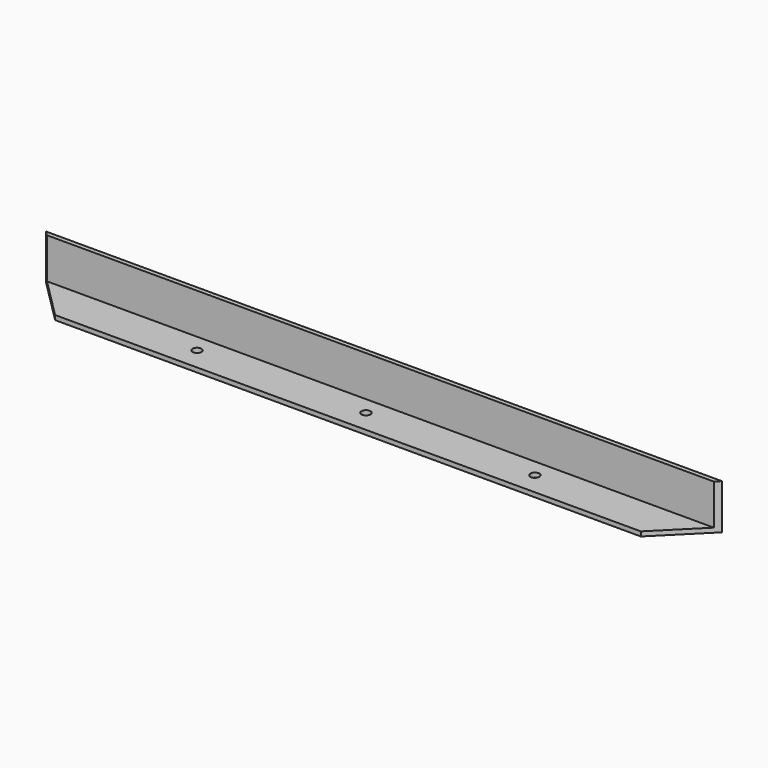
from build123d import *

# Parameters (mm, degrees)
F0_R     = 2.54
F1_DEPTH = 25.4
F2_T     = -2.54


with BuildPart() as f1:
    # F0 (on Top) → F1 (new body)
    with BuildSketch(Plane.XY):
        Polygon((184.18342, -10.24653), (-196.81658, -10.24653), (-171.41658, -35.64653), (158.78342, -35.64653), align=None)
        with Locations((-101.56658, -22.94653)):
            Circle(F0_R, mode=Mode.SUBTRACT)
        with Locations((-6.31658, -22.94653)):
            Circle(F0_R, mode=Mode.SUBTRACT)
        with Locations((88.93342, -22.94653)):
            Circle(F0_R, mode=Mode.SUBTRACT)
    extrude(amount=F1_DEPTH)

    # F2
    f2_openings = [f1.faces().sort_by_distance(p)[0] for p in [
        (-104.10658, -22.94653, 12.7),
        (-8.85658, -22.94653, 12.7),
        (86.39342, -22.94653, 12.7),
        (-184.11658, -22.94653, 12.7),
        (171.48342, -22.94653, 12.7),
        (-6.31658, -35.64653, 12.7),
        (168.783363, -20.246473, 25.4),
    ]]
    offset(amount=F2_T, openings=f2_openings)


solid = f1.part
